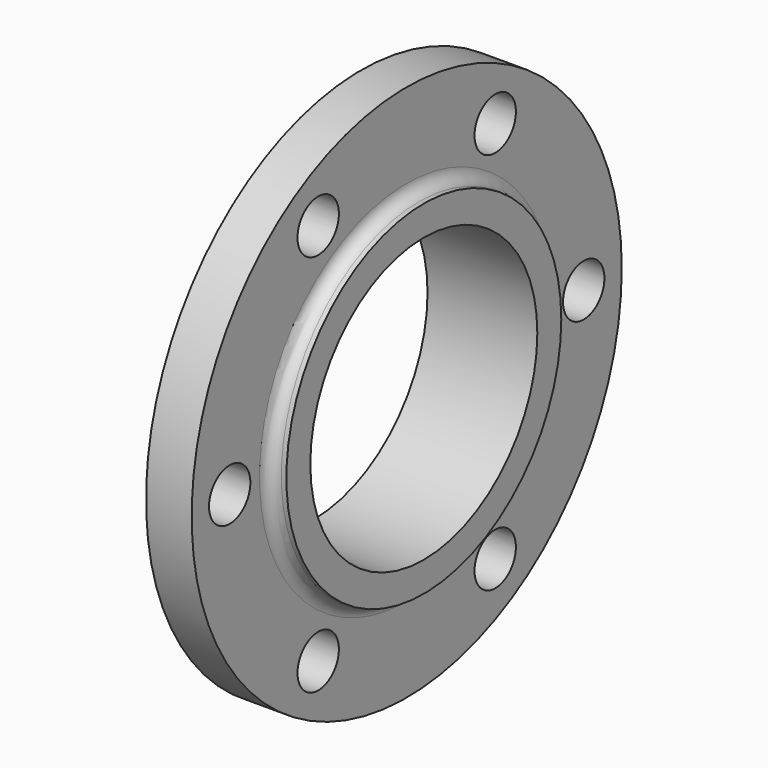
from build123d import *

# Parameters (mm, degrees)
F1_W          = 9.5356404781
F1_H          = 20.2632434666
F3_R          = 2.54
F4_R          = 2.54
F5_SIZE2      = 5.08
F5_SIZE       = 2.9329393675
F6_R          = 5.4033891953
F7_DEPTH      = 25.4
F7_DEPTH_BACK = 25.4
F8_DEPTH      = 25.4
F8_DEPTH_BACK = 25.4


with BuildPart() as f2:
    # F1 (on Top) → F2 (revolve)
    with BuildSketch(Plane.XY):
        with Locations((44.84731704, 46.0392739624)):
            Rectangle(F1_W, F1_H)
        Polygon((49.615137279, 35.9076522291), (40.0794968009, 35.9076522291), (30.2458684891, 35.9076522291), (30.2458684891, 29.6498890966), (53.1910024583, 29.6498890966), (53.1910024583, 35.9076522291), align=None)
    revolve(axis=Axis((0.2979896963, 0, 0), (1, 0, 0)))

    # F3
    f3_edges = [f2.edges().sort_by_distance(p)[0] for p in [
        (49.615137, -35.907652, 0),
    ]]
    fillet(f3_edges, radius=F3_R)

    # F4
    f4_edges = [f2.edges().sort_by_distance(p)[0] for p in [
        (40.079497, -35.907652, 0),
    ]]
    fillet(f4_edges, radius=F4_R)

    # F5
    f5_edges = [f2.edges().sort_by_distance(p)[0] for p in [
        (30.245868, -35.907652, 0),
    ]]
    f5_side = f2.faces().sort_by_distance((33.892683, -35.907652, 0))[0]
    chamfer(f5_edges, length=F5_SIZE, length2=F5_SIZE2, reference=f5_side)

    # F6 (on face) → F7 (cut, two sides)
    with BuildSketch(Plane(origin=(40.0794968009, 0, 0), x_dir=(0, -1, 0), z_dir=(-1, 0, 0))) as f7_sk:
        with Locations((-46.2401774935, 0)):
            Circle(F6_R)
    extrude(amount=F7_DEPTH, mode=Mode.SUBTRACT)
    extrude(f7_sk.sketch, amount=-F7_DEPTH_BACK, mode=Mode.SUBTRACT)

    # F6 (on face) → F8 (cut, two sides)
    with BuildSketch(Plane(origin=(40.0794968009, 0, 0), x_dir=(0, -1, 0), z_dir=(-1, 0, 0))) as f8_sk:
        with Locations((-46.2401774935, 0)):
            Circle(F6_R)
        with Locations((-23.1200887467, -40.0451683849)):
            Circle(F6_R)
        with Locations((23.1200887467, -40.0451683849)):
            Circle(F6_R)
        with Locations((46.2401774935, 0)):
            Circle(F6_R)
        with Locations((23.1200887467, 40.0451683849)):
            Circle(F6_R)
        with Locations((-23.1200887467, 40.0451683849)):
            Circle(F6_R)
    extrude(amount=-F8_DEPTH, mode=Mode.SUBTRACT)
    extrude(f8_sk.sketch, amount=F8_DEPTH_BACK, mode=Mode.SUBTRACT)


solid = f2.part
